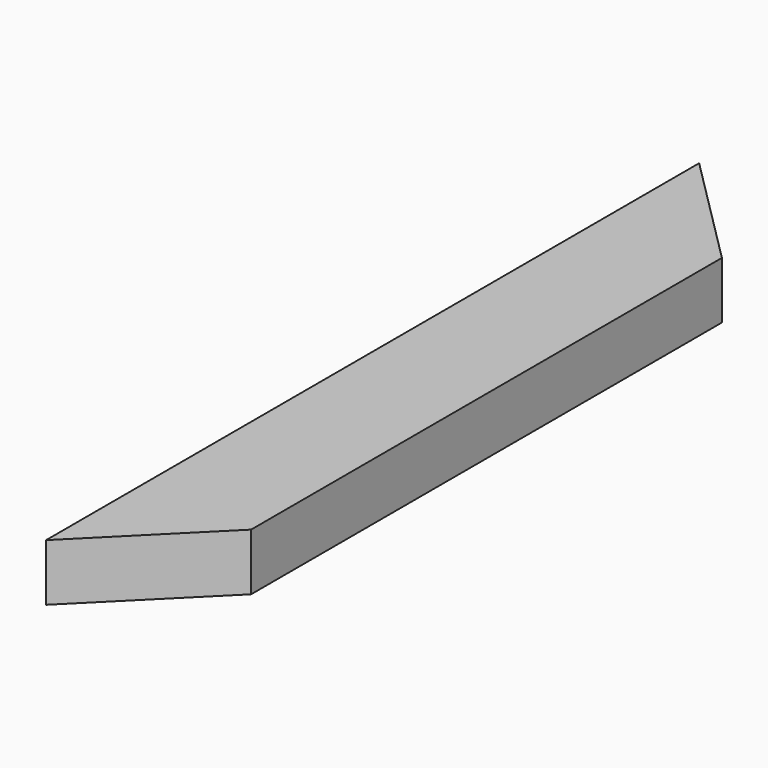
from build123d import *

# Parameters (mm, degrees)
F0_W     = 38.1
F0_H     = 19.05
F1_DEPTH = 273.05
F3_DEPTH = 25.4


with BuildPart() as f1:
    # F0 (on Front) → F1 (new body)
    with BuildSketch(Plane.XZ):
        with Locations((6.227258, -1.307048)):
            Rectangle(F0_W, F0_H)
    extrude(amount=F1_DEPTH)

    # F2 (on face) → F3 (cut)
    with BuildSketch(Plane.XY.offset(8.217952)):
        Polygon((25.277258, -234.95), (-12.822742, -273.05), (25.277258, -273.05), align=None)
        Polygon((25.277258, -38.1), (25.277258, 0), (-12.822742, 0), align=None)
    extrude(amount=-F3_DEPTH, mode=Mode.SUBTRACT)


solid = f1.part
